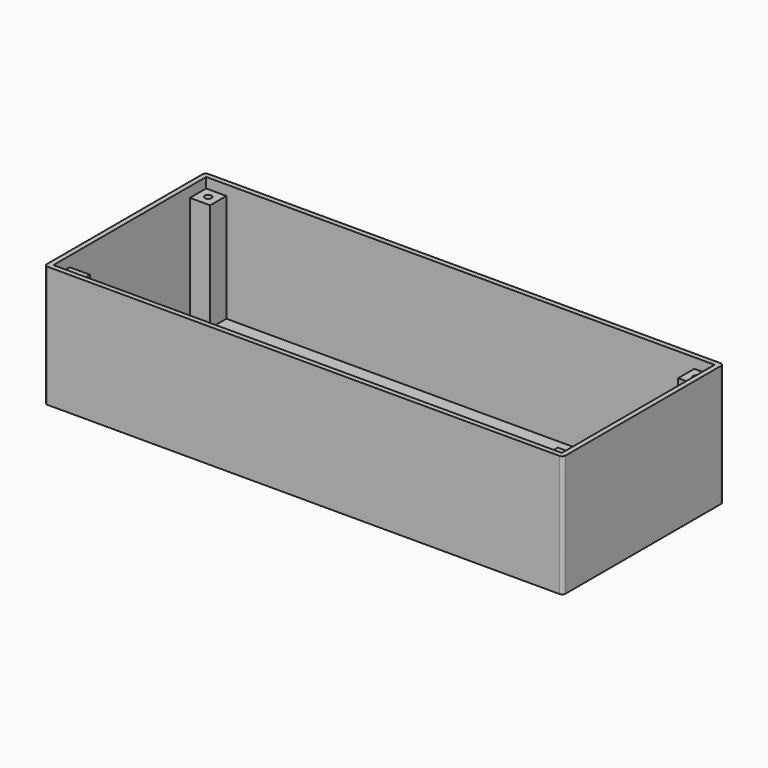
from build123d import *

# Parameters (mm, degrees)
SKETCH_W        = 153.5
SKETCH_H        = 59.5
PAD_DEPTH       = 1
SKETCH001_W     = 153.5
SKETCH001_H     = 59.5
SKETCH001_W_2   = 150.5
SKETCH001_H_2   = 56.5
PAD001_DEPTH    = 35
SKETCH002_W     = 6
SKETCH002_H     = 6
PAD002_DEPTH    = 32
SKETCH003_R     = 1
POCKET_DEPTH    = 20
SKETCH004_W     = 4
SKETCH004_H     = 10
SKETCH004_W_2   = 8.1
SKETCH004_H_2   = 8.1
PAD003_DEPTH    = 5
SKETCH005_R     = 1
POCKET001_DEPTH = 5
SKETCH006_W     = 10
SKETCH006_H     = 5
POCKET002_DEPTH = 1.5
FILLET_R        = 1
POCKET003_DEPTH = 4


with BuildPart() as part:
    # Sketch → Pad (new body)
    with BuildSketch(Plane.XY):
        with Locations((76.75, 29.75)):
            Rectangle(SKETCH_W, SKETCH_H)
    extrude(amount=PAD_DEPTH)

    # Sketch001 (on Face6 of Pad) → Pad001 (join)
    with BuildSketch(Plane.XY.offset(1)):
        with Locations((76.75, 29.75)):
            Rectangle(SKETCH001_W, SKETCH001_H)
        with Locations((76.75, 29.75)):
            Rectangle(SKETCH001_W_2, SKETCH001_H_2, mode=Mode.SUBTRACT)
    extrude(amount=PAD001_DEPTH)

    # Sketch002 (on Face15 of Pad001) → Pad002 (join)
    with BuildSketch(Plane.XY.offset(1)):
        with Locations((4.5, 55)):
            Rectangle(SKETCH002_W, SKETCH002_H)
        with Locations((149, 55)):
            Rectangle(SKETCH002_W, SKETCH002_H)
        with Locations((149, 4.5)):
            Rectangle(SKETCH002_W, SKETCH002_H)
        with Locations((4.5, 4.5)):
            Rectangle(SKETCH002_W, SKETCH002_H)
    extrude(amount=PAD002_DEPTH)

    # Sketch003 (on Face15 of Pad002) → Pocket (cut)
    with BuildSketch(Plane.XY.offset(33)):
        with Locations((4.5, 55)):
            Circle(SKETCH003_R)
        with Locations((4.5, 4.5)):
            Circle(SKETCH003_R)
        with Locations((149, 4.5)):
            Circle(SKETCH003_R)
        with Locations((149, 55)):
            Circle(SKETCH003_R)
    extrude(amount=-POCKET_DEPTH, mode=Mode.SUBTRACT)

    # Sketch004 (on Face17 of Pocket) → Pad003 (join)
    with BuildSketch(Plane.XY.offset(1)):
        with Locations((3.5, 38.8)):
            Rectangle(SKETCH004_W, SKETCH004_H)
        with Locations((3.5, 20.7)):
            Rectangle(SKETCH004_W, SKETCH004_H)
        with Locations((49.55, 29.75)):
            Rectangle(SKETCH004_W_2, SKETCH004_H_2)
    extrude(amount=PAD003_DEPTH)

    # Sketch005 (on Face28 of Pad003) → Pocket001 (cut)
    with BuildSketch(Plane.XY.offset(6)):
        with Locations((3.7, 35.45)):
            Circle(SKETCH005_R)
        with Locations((3.7, 24.05)):
            Circle(SKETCH005_R)
    extrude(amount=-POCKET001_DEPTH, mode=Mode.SUBTRACT)

    # Sketch006 (on Face7 of Pocket001) → Pocket002 (cut)
    with BuildSketch(Plane(origin=(0, 0, 0), x_dir=(0, -1, 0), z_dir=(-1, 0, 0))):
        with Locations((-29.75, 4.5)):
            Rectangle(SKETCH006_W, SKETCH006_H)
    extrude(amount=-POCKET002_DEPTH, mode=Mode.SUBTRACT)

    # Fillet
    fillet_edges = [part.edges().sort_by_distance(p)[0] for p in [
        (153.5, 0, 18.5),
        (153.5, 59.5, 18.5),
        (0, 59.5, 18.5),
        (0, 0, 18.5),
    ]]
    fillet(fillet_edges, radius=FILLET_R)

    # Sketch007 (on Face40 of Fillet) → Pocket003 (cut)
    with BuildSketch(Plane.XY.offset(6)):
        Polygon((3, 33.8), (1.5, 33.8), (1.5, 35.3), align=None)
        Polygon((3, 25.7), (1.5, 24.2), (1.5, 25.7), align=None)
    extrude(amount=-POCKET003_DEPTH, mode=Mode.SUBTRACT)


solid = part.part
